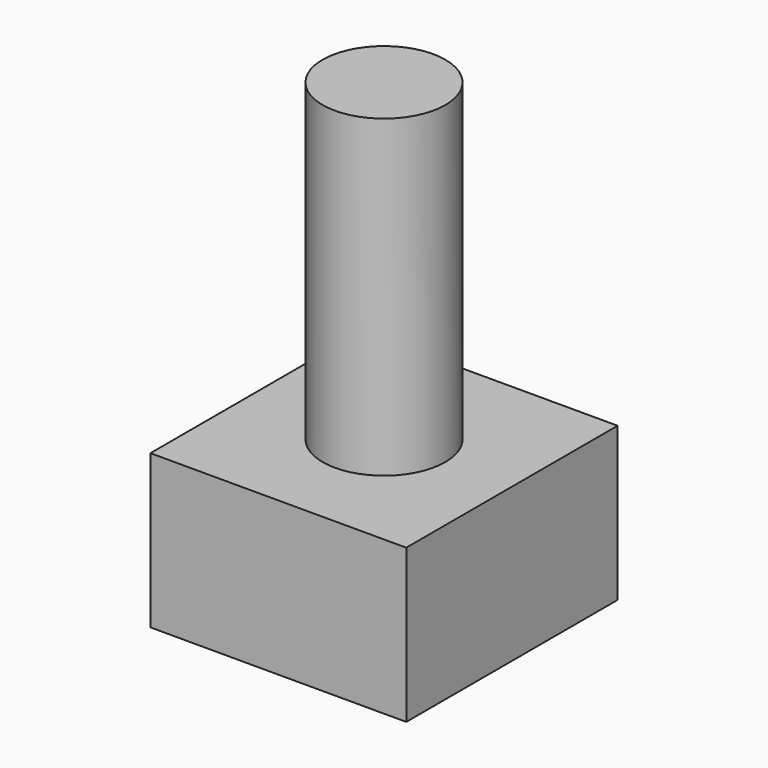
from build123d import *

# Parameters (mm, degrees)
F0_R     = 10
F1_DEPTH = 76.230982
F2_W     = 41.696184
F2_H     = 43.047138
F2_R     = 10
F3_DEPTH = 25


with BuildPart() as f1:
    # F0 (on Top) → F1 (new body)
    with BuildSketch(Plane.XY):
        Circle(F0_R)
    extrude(amount=F1_DEPTH)

    # F2 (on face) → F3 (join)
    with BuildSketch(Plane.XY):
        Rectangle(F2_W, F2_H)
        Circle(F2_R, mode=Mode.SUBTRACT)
    extrude(amount=F3_DEPTH)


solid = f1.part
